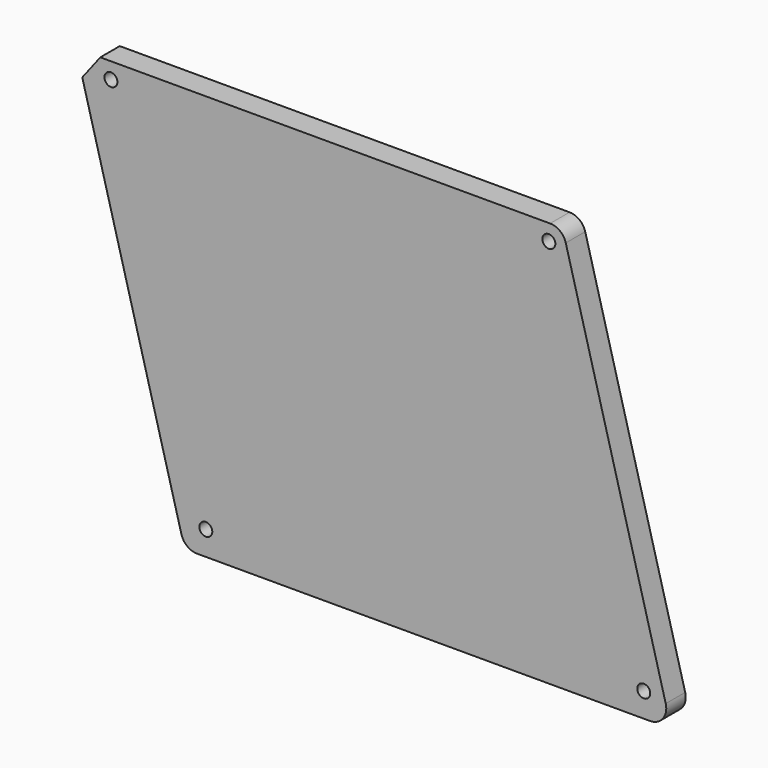
from build123d import *

# Parameters (mm, degrees)
BOX061_W               = 37
BOX061_H               = 160
BOX061_DEPTH           = 120
BOX061_PITCH_ANGLE     = -15
BOX060_W               = 37.35
BOX060_H               = 160
BOX060_DEPTH           = 120
BOX060_PITCH_ANGLE     = -15
BOX062_W               = 64
BOX062_H               = 5
BOX062_DEPTH           = 37
CYLINDER059_R          = 0.8
CYLINDER059_DEPTH      = 9
CYLINDER059_ROLL_ANGLE = 90
CYLINDER060_R          = 0.8
CYLINDER060_DEPTH      = 9
CYLINDER060_ROLL_ANGLE = 90
CYLINDER061_R          = 0.8
CYLINDER061_DEPTH      = 9
CYLINDER061_ROLL_ANGLE = 90
CYLINDER062_R          = 0.8
CYLINDER062_DEPTH      = 9
CYLINDER062_ROLL_ANGLE = 90
BOX067_W               = 37
BOX067_H               = 160
BOX067_DEPTH           = 120
BOX067_PITCH_ANGLE     = -15
BOX066_W               = 37.35
BOX066_H               = 160
BOX066_DEPTH           = 120
BOX066_PITCH_ANGLE     = -15
BOX065_W               = 76
BOX065_H               = 3
BOX065_DEPTH           = 50
FILLET007_R            = 2
CHAMFER004_SIZE        = 3


with BuildPart() as cube033:
    # Box061 → Box061 (new body)
    with BuildSketch(Plane.XY):
        with Locations((18.5, 80)):
            Rectangle(BOX061_W, BOX061_H)
    extrude(amount=BOX061_DEPTH)


with BuildPart() as cube033_1:
    # Box061 pitch: moved
    add(cube033.part.rotate(Axis((0, 0, 0), (0, 1, 0)), BOX061_PITCH_ANGLE))


with BuildPart() as cube033_2:
    # Box061 placement: moved
    add(cube033_1.part.moved(Location((549, -50, -4))))


with BuildPart() as fusion056:
    # Box060 → Box060 (new body)
    with BuildSketch(Plane.XY):
        with Locations((18.675, 80)):
            Rectangle(BOX060_W, BOX060_H)
    extrude(amount=BOX060_DEPTH)


with BuildPart() as fusion056_1:
    # Box060 pitch: moved
    add(fusion056.part.rotate(Axis((0, 0, 0), (0, 1, 0)), BOX060_PITCH_ANGLE))


with BuildPart() as fusion056_2:
    # Box060 placement: moved
    add(fusion056_1.part.moved(Location((470.94, -50, -10))))

    # Fusion056: union Cube033
    add(cube033_2.part)


with BuildPart() as cut078:
    # Box062 → Box062 (new body)
    with BuildSketch(Plane(origin=(468, -49, 68), x_dir=(1, 0, 0), z_dir=(0, 0, 1))):
        with Locations((32, 2.5)):
            Rectangle(BOX062_W, BOX062_H)
    extrude(amount=BOX062_DEPTH)

    # Cut078: cut Fusion056
    add(fusion056_2.part, mode=Mode.SUBTRACT)


with BuildPart() as cylinder059:
    # Cylinder059 → Cylinder059 (new body)
    with BuildSketch(Plane.XY):
        Circle(CYLINDER059_R)
    extrude(amount=CYLINDER059_DEPTH)


with BuildPart() as cylinder059_1:
    # Cylinder059 roll: moved
    add(cylinder059.part.rotate(Axis((0, 0, 0), (1, 0, 0)), CYLINDER059_ROLL_ANGLE))


with BuildPart() as cylinder059_2:
    # Cylinder059 placement: moved
    add(cylinder059_1.part.moved(Location((519.3, -40, 106))))


with BuildPart() as fusion061:
    # Cylinder060 → Cylinder060 (new body)
    with BuildSketch(Plane.XY):
        Circle(CYLINDER060_R)
    extrude(amount=CYLINDER060_DEPTH)


with BuildPart() as fusion061_1:
    # Cylinder060 roll: moved
    add(fusion061.part.rotate(Axis((0, 0, 0), (1, 0, 0)), CYLINDER060_ROLL_ANGLE))


with BuildPart() as fusion061_2:
    # Cylinder060 placement: moved
    add(fusion061_1.part.moved(Location((531, -40, 61))))

    # Fusion061: union Cylinder059
    add(cylinder059_2.part)


with BuildPart() as cylinder061:
    # Cylinder061 → Cylinder061 (new body)
    with BuildSketch(Plane.XY):
        Circle(CYLINDER061_R)
    extrude(amount=CYLINDER061_DEPTH)


with BuildPart() as cylinder061_1:
    # Cylinder061 roll: moved
    add(cylinder061.part.rotate(Axis((0, 0, 0), (1, 0, 0)), CYLINDER061_ROLL_ANGLE))


with BuildPart() as cylinder061_2:
    # Cylinder061 placement: moved
    add(cylinder061_1.part.moved(Location((519.3, -40, 106))))


with BuildPart() as fusion062:
    # Cylinder062 → Cylinder062 (new body)
    with BuildSketch(Plane.XY):
        Circle(CYLINDER062_R)
    extrude(amount=CYLINDER062_DEPTH)


with BuildPart() as fusion062_1:
    # Cylinder062 roll: moved
    add(fusion062.part.rotate(Axis((0, 0, 0), (1, 0, 0)), CYLINDER062_ROLL_ANGLE))


with BuildPart() as fusion062_2:
    # Cylinder062 placement: moved
    add(fusion062_1.part.moved(Location((531, -40, 61))))

    # Fusion063: union Cylinder061
    add(cylinder061_2.part)


with BuildPart() as fusion062_3:
    # Fusion063 placement: moved
    add(fusion062_2.part.moved(Location((-54, 0, 0))))

    # Fusion062: union Fusion061
    add(fusion061_2.part)


with BuildPart() as fusion062_4:
    # Fusion062 placement: moved
    add(fusion062_3.part.moved(Location((0, -1, 0))))


with BuildPart() as cube039:
    # Box067 → Box067 (new body)
    with BuildSketch(Plane.XY):
        with Locations((18.5, 80)):
            Rectangle(BOX067_W, BOX067_H)
    extrude(amount=BOX067_DEPTH)


with BuildPart() as cube039_1:
    # Box067 pitch: moved
    add(cube039.part.rotate(Axis((0, 0, 0), (0, 1, 0)), BOX067_PITCH_ANGLE))


with BuildPart() as cube039_2:
    # Box067 placement: moved
    add(cube039_1.part.moved(Location((551, -50, -4))))


with BuildPart() as fusion060:
    # Box066 → Box066 (new body)
    with BuildSketch(Plane.XY):
        with Locations((18.675, 80)):
            Rectangle(BOX066_W, BOX066_H)
    extrude(amount=BOX066_DEPTH)


with BuildPart() as fusion060_1:
    # Box066 pitch: moved
    add(fusion060.part.rotate(Axis((0, 0, 0), (0, 1, 0)), BOX066_PITCH_ANGLE))


with BuildPart() as fusion060_2:
    # Box066 placement: moved
    add(fusion060_1.part.moved(Location((453.94, -50, -10))))

    # Fusion060: union Cube039
    add(cube039_2.part)


with BuildPart() as left_back_door_mech_cover:
    # Box065 → Box065 (new body)
    with BuildSketch(Plane(origin=(460, -49, 58), x_dir=(1, 0, 0), z_dir=(0, 0, 1))):
        with Locations((38, 1.5)):
            Rectangle(BOX065_W, BOX065_H)
    extrude(amount=BOX065_DEPTH)

    # Cut063: cut Fusion060
    add(fusion060_2.part, mode=Mode.SUBTRACT)


with BuildPart() as left_back_door_mech_cover_1:
    # Cut063 placement: moved
    add(left_back_door_mech_cover.part.moved(Location((0, -1, 0))))

    # Cut064: cut Fusion062
    add(fusion062_4.part, mode=Mode.SUBTRACT)

    # Fillet007
    fillet007_edges = [left_back_door_mech_cover_1.edges().sort_by_distance(p)[0] for p in [
        (534.38715, -48.5, 58),
        (474.38702, -48.5, 58),
        (520.98969, -48.5, 108),
    ]]
    fillet(fillet007_edges, radius=FILLET007_R)

    # Chamfer004
    chamfer004_edges = [left_back_door_mech_cover_1.edges().sort_by_distance(p)[0] for p in [
        (460.989561, -48.5, 108),
    ]]
    chamfer(chamfer004_edges, length=CHAMFER004_SIZE)

    # Cut079: cut Cut078
    add(cut078.part, mode=Mode.SUBTRACT)


solid = left_back_door_mech_cover_1.part
